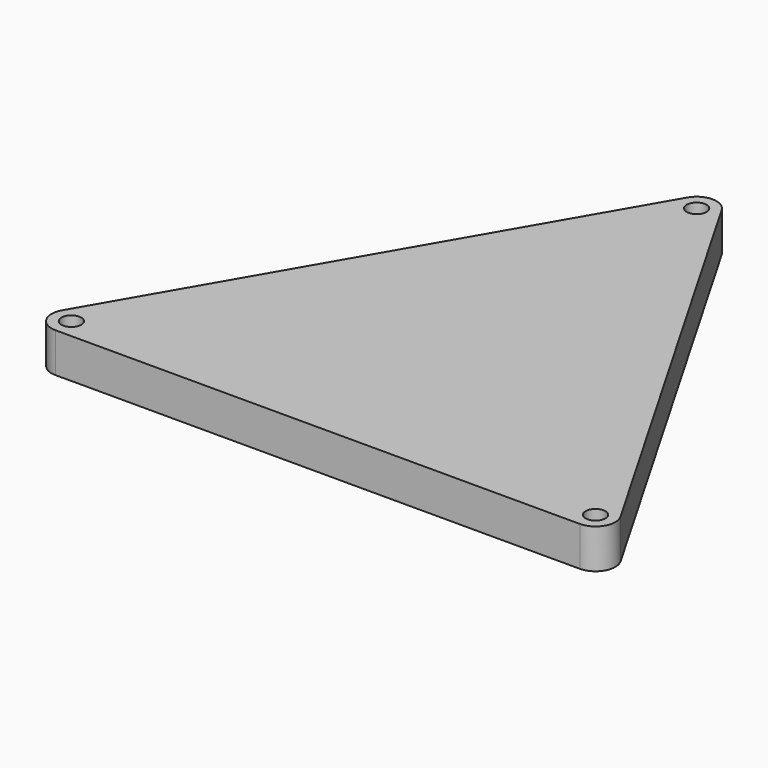
from build123d import *

# Parameters (mm, degrees)
F0_R     = 0.25
F1_DEPTH = 1


with BuildPart() as f1:
    # F0 (on Top) → F1 (new body)
    with BuildSketch(Plane.XY):
        with BuildLine():
            ThreePointArc((0.433013, 7.240381), (0, 7.490381), (-0.433013, 7.240381))
            Line((-0.433013, 7.240381), (-7.066987, -4.25))
            ThreePointArc((-7.066987, -4.25), (-7.066987, -4.75), (-6.633975, -5))
            Line((-6.633975, -5), (6.633975, -5))
            ThreePointArc((6.633975, -5), (7.066987, -4.75), (7.066987, -4.25))
            Line((7.066987, -4.25), (0.433013, 7.240381))
        make_face()
        with Locations((-6.633975, -4.5)):
            Circle(F0_R, mode=Mode.SUBTRACT)
        with Locations((6.633975, -4.5)):
            Circle(F0_R, mode=Mode.SUBTRACT)
        with Locations((0, 6.990381)):
            Circle(F0_R, mode=Mode.SUBTRACT)
    extrude(amount=F1_DEPTH)


solid = f1.part
